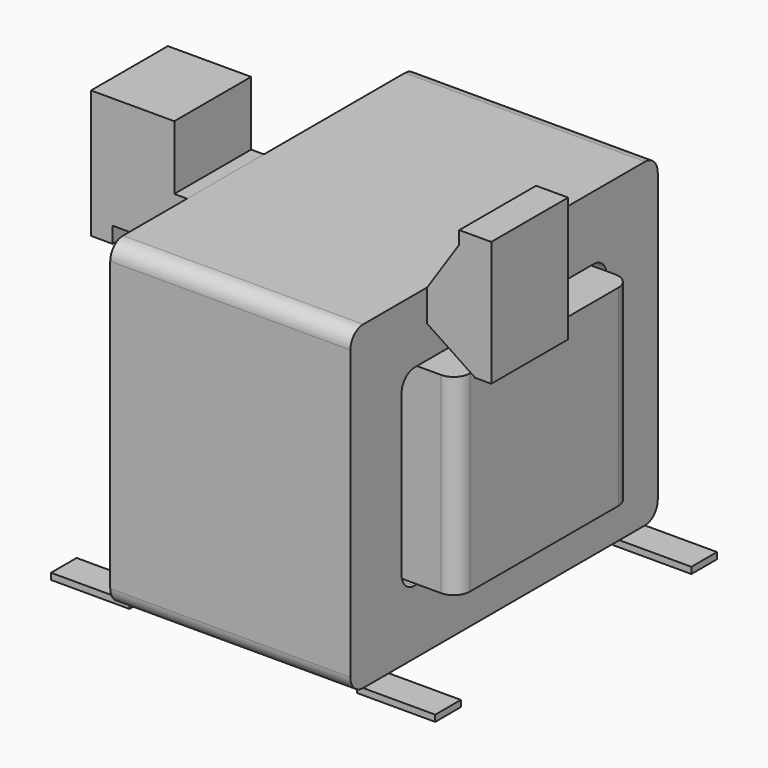
from build123d import *

# Parameters (mm, degrees)
F0_W      = 75
F0_H      = 120
F1_DEPTH  = 100
F2_W      = 80
F2_H      = 60
F3_DEPTH  = 75.001
F4_R      = 5
F5_W      = 75
F5_H      = 68
F6_DEPTH  = 60
F7_W      = 22.5
F7_H      = 10
F7_W_2    = 2
F8_DEPTH  = 2
F10_DEPTH = 30


with BuildPart() as f1:
    # F0 (on Top) → F1 (new body)
    with BuildSketch(Plane.XY):
        Rectangle(F0_W, F0_H)
    extrude(amount=F1_DEPTH)

    # F2 (on face) → F3 (cut, through all)
    with BuildSketch(Plane.YZ.offset(37.5)):
        with Locations((0, 50)):
            Rectangle(F2_W, F2_H)
    extrude(amount=-F3_DEPTH, mode=Mode.SUBTRACT)

    # F4
    f4_edges = [f1.edges().sort_by_distance(p)[0] for p in [
        (0, 40, 20),
        (0, -60, 100),
        (0, -60, 0),
        (0, -40, 20),
        (0, 60, 0),
        (0, 60, 100),
        (0, -40, 80),
        (0, 40, 80),
    ]]
    fillet(f4_edges, radius=F4_R)

    # F7 (on face) → F8 (join)
    with BuildSketch(Plane(origin=(0, 0, 0), x_dir=(1, 0, 0), z_dir=(0, 0, -1))):
        with Locations((-48.75, 50)):
            Rectangle(F7_W, F7_H)
        with Locations((48.75, 50)):
            Rectangle(F7_W, F7_H)
        with Locations((48.75, -50)):
            Rectangle(F7_W, F7_H)
        with Locations((-48.75, -50)):
            Rectangle(F7_W, F7_H)
        with Locations((-36.5, 50)):
            Rectangle(F7_W_2, F7_H)
        with Locations((36.5, 50)):
            Rectangle(F7_W_2, F7_H)
        with Locations((36.5, -50)):
            Rectangle(F7_W_2, F7_H)
        with Locations((-36.5, -50)):
            Rectangle(F7_W_2, F7_H)
    extrude(amount=F8_DEPTH)


with BuildPart() as f6:
    # F5 (on face) → F6 (new body)
    with BuildSketch(Plane.XY.offset(20)):
        with BuildLine():
            Line((-37.5, 34), (-45, 34))
            ThreePointArc((-45, 34), (-48.5355339059, 32.5355339059), (-50, 29))
            Line((-50, 29), (-50, -29))
            ThreePointArc((-50, -29), (-48.5355339059, -32.5355339059), (-45, -34))
            Line((-45, -34), (-37.5, -34))
            Line((-37.5, -34), (-37.5, 34))
        make_face()
        Rectangle(F5_W, F5_H)
        with BuildLine():
            Line((45, 34), (37.5, 34))
            Line((37.5, 34), (37.5, -34))
            Line((37.5, -34), (45, -34))
            ThreePointArc((45, -34), (48.5355339059, -32.5355339059), (50, -29))
            Line((50, -29), (50, 29))
            ThreePointArc((50, 29), (48.5355339059, 32.5355339059), (45, 34))
        make_face()
    extrude(amount=F6_DEPTH)


with BuildPart() as f10:
    # F9 (on Front) → F10 (new body)
    with BuildSketch(Plane.XZ):
        Polygon((-37.5, 85), (-37.5, 100), (-41.5, 100), (-41.5, 120), (-67.5, 120), (-67.5, 80), (-60.756136775, 80), (-60.756136775, 85), align=None)
    extrude(amount=F10_DEPTH)


with BuildPart() as f10b:
    # F9 (on Front) → F10, piece 2 (new body)
    with BuildSketch(Plane.XZ):
        Polygon((47.5, 115), (37.5, 100), (37.5, 95), (37.5, 90), (52.5, 80), (57.5, 80), (57.5, 119), (47.5, 119), align=None)
    extrude(amount=F10_DEPTH)


solid = Compound([f1.part, f6.part, f10.part, f10b.part])
